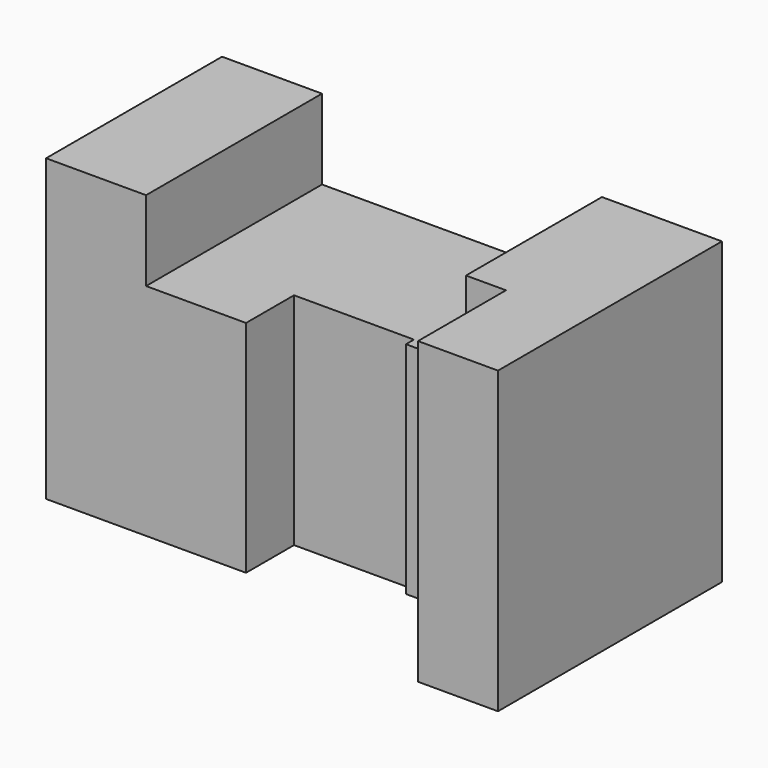
from build123d import *

# Parameters (mm, degrees)
F1_DEPTH = 70
F4_DEPTH = 75.001


with BuildPart() as f1:
    # F0 (on Front) → F1 (new body)
    with BuildSketch(Plane.XZ):
        Polygon((0, 75), (0, 0), (125, 0), (125, 75), (95, 75), (95, 55), (25, 55), (25, 75), align=None)
    extrude(amount=F1_DEPTH)

    # F3 (on offset) → F4 (cut, through all)
    with BuildSketch(Plane.XY.offset(75)):
        Polygon((50, -55), (0, -55), (0, -70), (105, -70), (105, -42.5), (80, -42.5), (80, -40), (50, -40), align=None)
    extrude(amount=-F4_DEPTH, mode=Mode.SUBTRACT)


solid = f1.part
